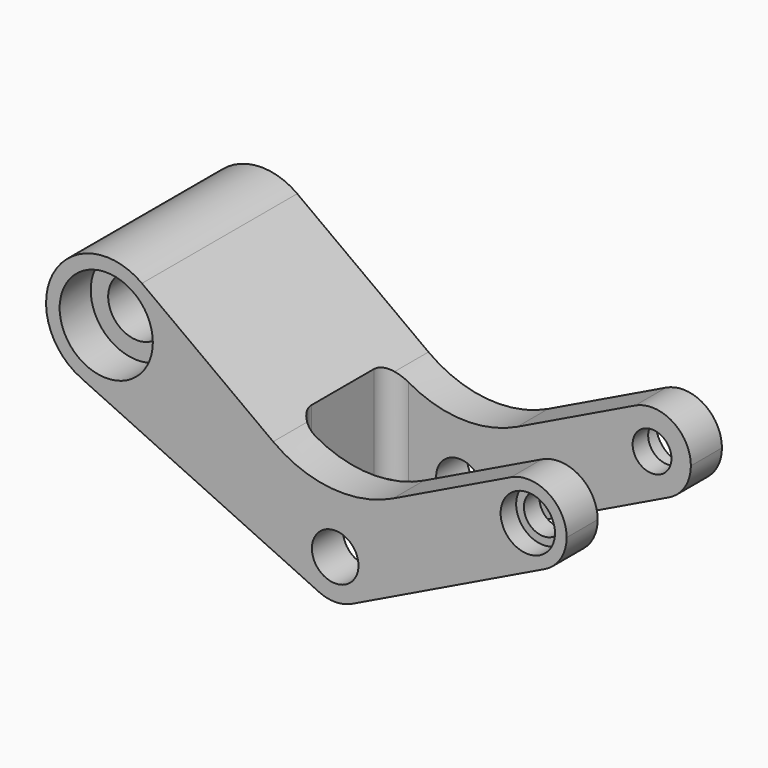
from build123d import *

# Parameters (mm, degrees)
F0_R     = 190.5
F0_R_2   = 152.4
F0_R_3   = 177.8
F1_DEPTH = 635
F2_DEPTH = 508
F3_R     = 127
F4_DEPTH = 1270.001
F3_R_2   = 304.8
F5_DEPTH = 254
F6_W     = 2286
F6_H     = 762
F7_DEPTH = 1270
F8_R     = 127


with BuildPart() as f1:
    # F0 (on Front) → F1 (new body, symmetric)
    with BuildSketch(Plane.XZ):
        with BuildLine():
            ThreePointArc((-1264.330122, 1168.232121), (-1836.350214, 1052.18126), (-1664.265743, 494.452184))
            ThreePointArc((-1664.265743, 494.452184), (-1286.302092, 519.15959), (-1104.098667, 851.227187))
            ThreePointArc((-1104.098667, 851.227187), (-1146.432578, 1028.826629), (-1264.330122, 1168.232121))
        make_face()
        with Locations((-1497.798667, 851.227187)):
            Circle(F0_R, mode=Mode.SUBTRACT)
        with BuildLine():
            ThreePointArc((-107.398114, -231.964185), (-136.449403, 212.450395), (254, -1.786764))
            ThreePointArc((254, -1.786764), (215.196514, -136.718081), (110.642046, -230.422583))
            Line((110.642046, -230.422583), (1370.817385, 379.404777))
            ThreePointArc((1370.817385, 379.404777), (1031.539521, 497.39855), (1149.533294, 836.676415))
            Line((1149.533294, 836.676415), (378.226856, 463.423778))
            ThreePointArc((378.226856, 463.423778), (-23.738712, 390.556908), (-405.573884, 535.773296))
            Line((-405.573884, 535.773296), (-1264.330122, 1168.232121))
            ThreePointArc((-1264.330122, 1168.232121), (-1146.432578, 1028.826629), (-1104.098667, 851.227187))
            ThreePointArc((-1104.098667, 851.227187), (-1286.302092, 519.15959), (-1664.265743, 494.452184))
            Line((-1664.265743, 494.452184), (-107.398114, -231.964185))
        make_face()
        with BuildLine():
            ThreePointArc((110.642046, -230.422583), (215.196514, -136.718081), (254, -1.786764))
            ThreePointArc((254, -1.786764), (-136.449403, 212.450395), (-107.398114, -231.964185))
            ThreePointArc((-107.398114, -231.964185), (1.795803, -255.780416), (110.642046, -230.422583))
        make_face()
        with Locations((0, 3.573452)):
            Circle(F0_R_2, mode=Mode.SUBTRACT)
        with BuildLine():
            ThreePointArc((1149.533294, 836.676415), (1031.539521, 497.39855), (1370.817385, 379.404777))
            ThreePointArc((1370.817385, 379.404777), (1475.371854, 473.109279), (1514.175339, 608.040596))
            ThreePointArc((1514.175339, 608.040596), (1395.106656, 823.23711), (1149.533294, 836.676415))
        make_face()
        with Locations((1260.175339, 608.040596)):
            Circle(F0_R_3, mode=Mode.SUBTRACT)
    extrude(amount=F1_DEPTH, both=True)

    # F0 (on Front) → F2 (join, symmetric)
    with BuildSketch(Plane.XZ):
        with Locations((1260.175339, 608.040596)):
            Circle(F0_R_3)
    extrude(amount=F2_DEPTH, both=True)

    # F3 (on face) → F4 (cut, through all)
    with BuildSketch(Plane.XZ.offset(635)):
        with Locations((1260.175339, 608.040596)):
            Circle(F3_R)
    extrude(amount=-F4_DEPTH, mode=Mode.SUBTRACT)

    # F3 (on face) → F5 (cut)
    with BuildSketch(Plane.XZ.offset(635)):
        with Locations((-1497.798667, 851.227187)):
            Circle(F3_R_2)
    extrude(amount=-F5_DEPTH, mode=Mode.SUBTRACT)

    # F6 (on Top) → F7 (cut, symmetric)
    with BuildSketch(Plane.XY):
        with Locations((684.330821, 0)):
            Rectangle(F6_W, F6_H)
    extrude(amount=F7_DEPTH, both=True, mode=Mode.SUBTRACT)

    # F8
    f8_edges = [f1.edges().sort_by_distance(p)[0] for p in [
        (-458.669179, 381, 253.405931),
        (-458.669179, -381, 253.405931),
    ]]
    fillet(f8_edges, radius=F8_R)


solid = f1.part
